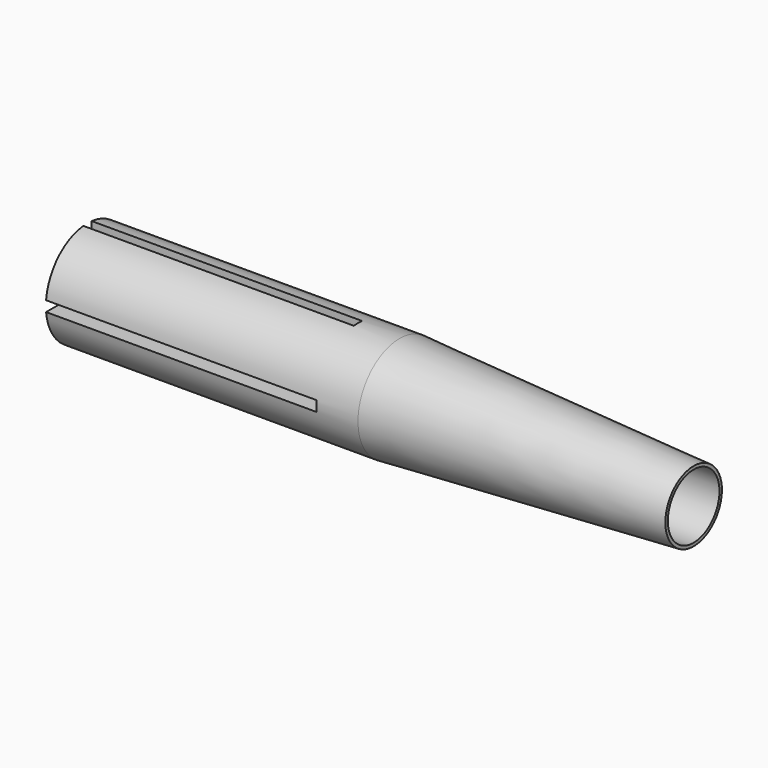
from build123d import *

# Parameters (mm, degrees)
F2_R     = 1.55
F3_DEPTH = 15
F5_DEPTH = 13


with BuildPart() as f1:
    # F0 (on Front) → F1 (revolve)
    with BuildSketch(Plane.XZ):
        Polygon((-29.132355, 2.5), (-29.132355, 0), (0, 0), (0, 1.699776), (-14.132355, 2.5), align=None)
    revolve(axis=Axis((-14.566178, 0, 0), (-1, 0, 0)))

    # F2 (on Right) → F3 (cut)
    with BuildSketch(Plane.YZ):
        Circle(F2_R)
    extrude(amount=-F3_DEPTH, mode=Mode.SUBTRACT)

    # F4 (on face) → F5 (cut)
    with BuildSketch(Plane(origin=(-29.132355, 0, 0), x_dir=(0, -1, 0), z_dir=(-1, 0, 0))):
        Polygon((-2.934946, 0.25), (-2.934946, 0), (-2.934946, -0.25), (-0.25, -0.25), (-0.25, -2.634228), (0.25, -2.634228), (0.25, -0.25), (3.675647, -0.25), (3.675647, 0.25), (0.25, 0.25), (0.25, 2.968905), (-0.25, 2.968905), (-0.25, 0.25), align=None)
    extrude(amount=-F5_DEPTH, mode=Mode.SUBTRACT)


solid = f1.part
